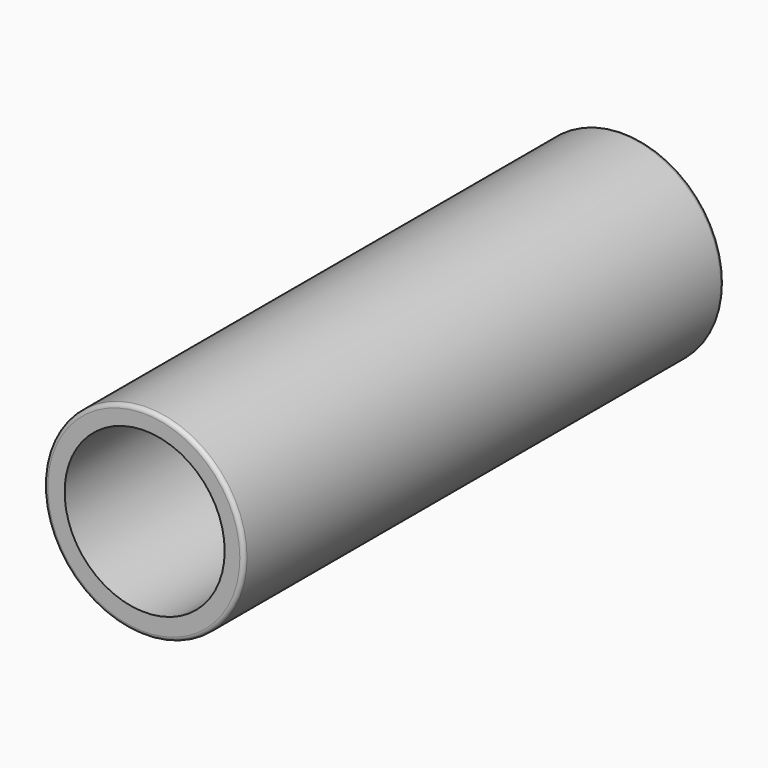
from build123d import *

# Parameters (mm, degrees)
F0_R     = 49.99
F0_R_2   = 40
F1_DEPTH = 150
F2_R     = 2


with BuildPart() as f1:
    # F0 (on Front) → F1 (new body, symmetric)
    with BuildSketch(Plane.XZ):
        Circle(F0_R)
        with Locations((0.4171997621, 0.6258051713)):
            Circle(F0_R_2, mode=Mode.SUBTRACT)
    extrude(amount=F1_DEPTH, both=True)

    # F2
    f2_edges = [f1.edges().sort_by_distance(p)[0] for p in [
        (-49.99, -150, 0),
        (-49.99, 150, 0),
    ]]
    fillet(f2_edges, radius=F2_R)


solid = f1.part
